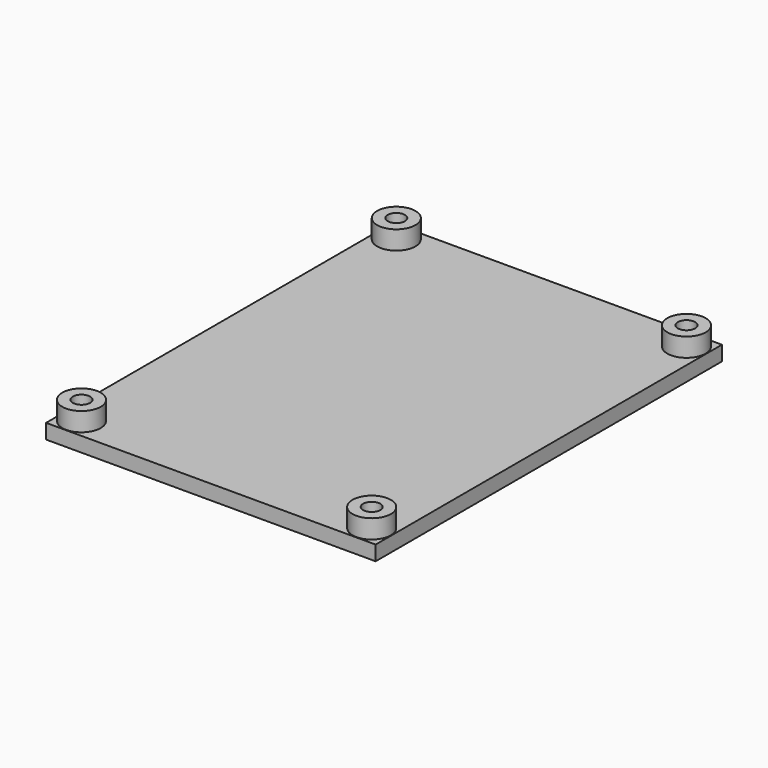
from build123d import *

# Parameters (mm, degrees)
F0_W     = 67
F0_H     = 88
F1_DEPTH = 3
F2_R     = 3.9
F3_DEPTH = 3.81
F5_D     = 3.5


with BuildPart() as f1:
    # F0 (on Top) → F1 (new body)
    with BuildSketch(Plane.XY):
        Rectangle(F0_W, F0_H)
    extrude(amount=F1_DEPTH)

    # F2 (on face) → F3 (join)
    with BuildSketch(Plane.XY.offset(3)):
        with Locations((-29.5, 40)):
            Circle(F2_R)
        with Locations((29.5, 40)):
            Circle(F2_R)
        with Locations((-29.5, -40)):
            Circle(F2_R)
        with Locations((29.5, -40)):
            Circle(F2_R)
    extrude(amount=F3_DEPTH)

    # F5 (through all)
    with Locations(Plane(origin=(0, 0, 0), x_dir=(1, 0, 0), z_dir=(0, 0, -1))):
        with Locations((29.5, 40), (-29.5, 40), (-29.5, -40), (29.5, -40)):
            Hole(F5_D / 2)


solid = f1.part
